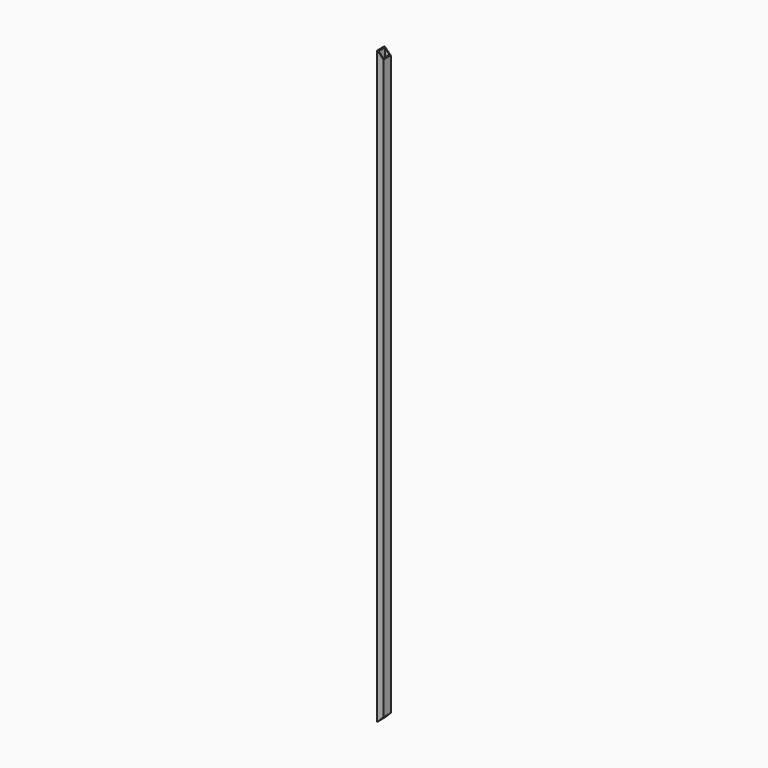
from build123d import *

# Parameters (mm, degrees)
F0_W     = 50.8
F0_H     = 76.2
F0_W_2   = 38.100002
F0_H_2   = 63.500002
F1_DEPTH = 4876.8
F3_DEPTH = 76.2


with BuildPart() as f1:
    # F0 (on Top) → F1 (new body)
    with BuildSketch(Plane.XY):
        Rectangle(F0_W, F0_H)
        Rectangle(F0_W_2, F0_H_2, mode=Mode.SUBTRACT)
    extrude(amount=F1_DEPTH)

    # F2 (on face) → F3 (cut)
    with BuildSketch(Plane.XZ.offset(38.1)):
        Polygon((25.4, 50.8), (-25.4, 0), (25.4, 0), align=None)
        Polygon((25.4, 4876.8), (-25.4, 4876.8), (25.4, 4826), align=None)
    extrude(amount=-F3_DEPTH, mode=Mode.SUBTRACT)


solid = f1.part
